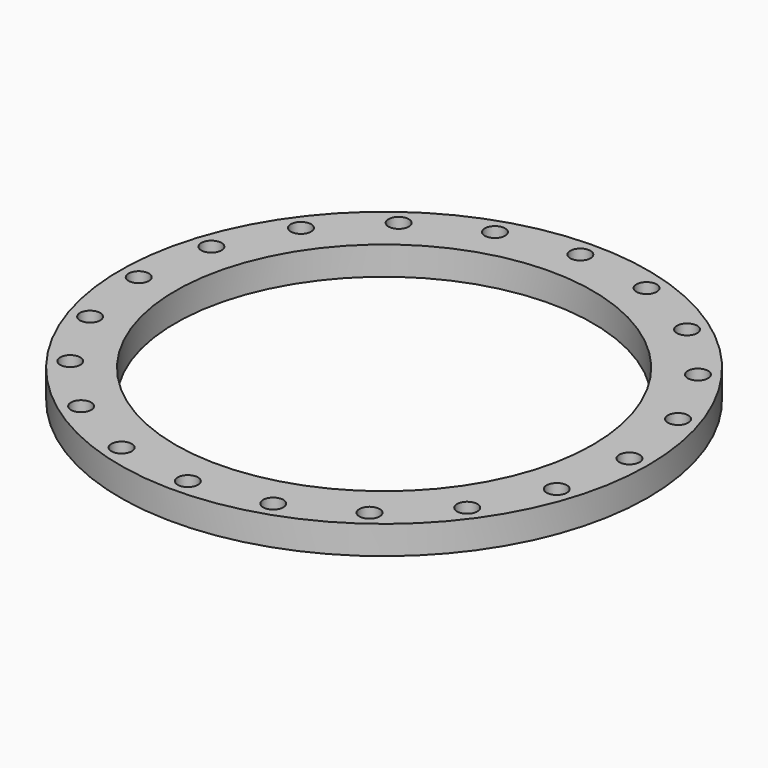
from build123d import *

# Parameters (mm, degrees)
F0_R     = 390
F0_R_2   = 15
F0_R_3   = 308.25
F1_DEPTH = 42


with BuildPart() as f1:
    # F0 (on Top) → F1 (new body)
    with BuildSketch(Plane.XY):
        Circle(F0_R)
        with Locations((-213.072154, -293.26866)):
            Circle(F0_R_2, mode=Mode.SUBTRACT)
        with Locations((-293.26866, -213.072154)):
            Circle(F0_R_2, mode=Mode.SUBTRACT)
        with Locations((-112.01866, -344.757987)):
            Circle(F0_R_2, mode=Mode.SUBTRACT)
        with Locations((-344.757987, -112.01866)):
            Circle(F0_R_2, mode=Mode.SUBTRACT)
        with Locations((0, -362.5)):
            Circle(F0_R_2, mode=Mode.SUBTRACT)
        with Locations((112.01866, -344.757987)):
            Circle(F0_R_2, mode=Mode.SUBTRACT)
        with Locations((213.072154, -293.26866)):
            Circle(F0_R_2, mode=Mode.SUBTRACT)
        with Locations((293.26866, -213.072154)):
            Circle(F0_R_2, mode=Mode.SUBTRACT)
        with Locations((344.757987, -112.01866)):
            Circle(F0_R_2, mode=Mode.SUBTRACT)
        with Locations((-362.5, 0)):
            Circle(F0_R_2, mode=Mode.SUBTRACT)
        with Locations((-344.757987, 112.01866)):
            Circle(F0_R_2, mode=Mode.SUBTRACT)
        with Locations((-293.26866, 213.072154)):
            Circle(F0_R_2, mode=Mode.SUBTRACT)
        with Locations((-213.072154, 293.26866)):
            Circle(F0_R_2, mode=Mode.SUBTRACT)
        with Locations((-112.01866, 344.757987)):
            Circle(F0_R_2, mode=Mode.SUBTRACT)
        Circle(F0_R_3, mode=Mode.SUBTRACT)
        with Locations((362.5, 0)):
            Circle(F0_R_2, mode=Mode.SUBTRACT)
        with Locations((344.757987, 112.01866)):
            Circle(F0_R_2, mode=Mode.SUBTRACT)
        with Locations((0, 362.5)):
            Circle(F0_R_2, mode=Mode.SUBTRACT)
        with Locations((112.01866, 344.757987)):
            Circle(F0_R_2, mode=Mode.SUBTRACT)
        with Locations((293.26866, 213.072154)):
            Circle(F0_R_2, mode=Mode.SUBTRACT)
        with Locations((213.072154, 293.26866)):
            Circle(F0_R_2, mode=Mode.SUBTRACT)
    extrude(amount=F1_DEPTH)


solid = f1.part
